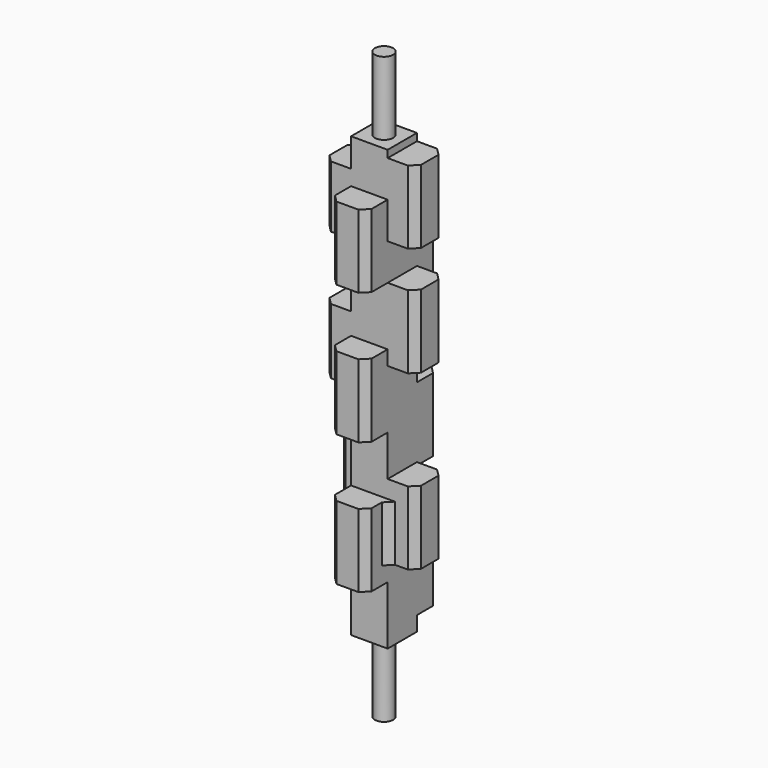
from build123d import *

# Parameters (mm, degrees)
F0_W      = 12.7
F0_H      = 12.7
F1_DEPTH  = 76.2
F2_W      = 12.7
F2_H      = 25.4
F3_DEPTH  = 9.525
F4_W      = 12.7
F4_H      = 25.4
F5_DEPTH  = 9.525
F7_DEPTH  = 9.525
F9_DEPTH  = 9.525
F10_R     = 3.1496
F11_DEPTH = 25.4
F12_R     = 3.1496
F13_DEPTH = 25.4
F14_SIZE  = 2.54


with BuildPart() as f1:
    # F0 (on Top) → F1 (new body, symmetric)
    with BuildSketch(Plane.XY):
        Rectangle(F0_W, F0_H)
    extrude(amount=F1_DEPTH, both=True)

    # F2 (on face) → F3 (join)
    with BuildSketch(Plane(origin=(0, 6.35, 0), x_dir=(-1, 0, 0), z_dir=(0, 1, 0))):
        with Locations((0, -58.42)):
            Rectangle(F2_W, F2_H)
        with Locations((0, -12.7)):
            Rectangle(F2_W, F2_H)
        with Locations((0, 33.02)):
            Rectangle(F2_W, F2_H)
    extrude(amount=F3_DEPTH)

    # F4 (on face) → F5 (join)
    with BuildSketch(Plane.XZ.offset(6.35)):
        with Locations((0, 48.26)):
            Rectangle(F4_W, F4_H)
        with Locations((0, 2.54)):
            Rectangle(F4_W, F4_H)
        with Locations((0, -43.18)):
            Rectangle(F4_W, F4_H)
    extrude(amount=F5_DEPTH)

    # F6 (on face) → F7 (join)
    with BuildSketch(Plane(origin=(-6.35, 0, 0), x_dir=(0, -1, 0), z_dir=(-1, 0, 0))):
        Polygon((-6.35, 66.260369), (-6.35, 45.72), (-6.35, 44.788861), (6.35, 44.788861), (6.35, 60.96), (6.35, 66.260369), align=None)
        Polygon((-6.35, 20.32), (-6.35, 0), (6.35, 0), (6.35, 15.24), (6.35, 22.712743), (-6.35, 22.712743), align=None)
        Polygon((-6.35, -45.72), (-6.35, -50.8), (0, -50.8), (0, -19.05), (-6.35, -19.05), (-6.35, -25.4), align=None)
    extrude(amount=F7_DEPTH)

    # F8 (on face) → F9 (join)
    with BuildSketch(Plane.YZ.offset(6.35)):
        Polygon((6.35, -24.37056), (-6.35, -24.37056), (-6.35, -30.48), (-6.35, -49.77056), (6.35, -49.77056), (6.35, -45.72), (6.35, -25.4), align=None)
        Polygon((6.35, 35.56), (-6.35, 35.56), (-6.35, 15.24), (-6.35, 10.16), (6.35, 10.16), (6.35, 20.32), align=None)
        Polygon((6.35, 73.66), (-6.35, 73.66), (-6.35, 60.96), (-6.35, 48.26), (6.35, 48.26), align=None)
    extrude(amount=F9_DEPTH)

    # F10 (on face) → F11 (join)
    with BuildSketch(Plane.XY.offset(76.2)):
        Circle(F10_R)
    extrude(amount=F11_DEPTH)

    # F12 (on face) → F13 (join)
    with BuildSketch(Plane(origin=(0, 0, -76.2), x_dir=(1, 0, 0), z_dir=(0, 0, -1))):
        Circle(F12_R)
    extrude(amount=F13_DEPTH)

    # F14
    f14_edges = [f1.edges().sort_by_distance(p)[0] for p in [
        (15.875, -6.35, 60.96),
        (15.875, 6.35, 60.96),
        (6.35, -15.875, 48.26),
        (-6.35, -15.875, 48.26),
        (-15.875, -6.35, 55.524615),
        (-15.875, 6.35, 55.524615),
        (-6.35, 15.875, 33.02),
        (6.35, 15.875, 33.02),
        (15.875, 6.35, 22.86),
        (15.875, -6.35, 22.86),
        (6.35, -15.875, 2.54),
        (-6.35, -15.875, 2.54),
        (-15.875, -6.35, 11.356371),
        (-15.875, 6.35, 11.356371),
        (-6.35, 15.875, -12.7),
        (6.35, 15.875, -12.7),
        (-15.875, 6.35, -34.925),
        (-15.875, 0, -34.925),
        (-6.35, -15.875, -43.18),
        (6.35, -15.875, -43.18),
        (6.35, -6.35, -40.12528),
        (15.875, 6.35, -37.07056),
        (15.875, -6.35, -37.07056),
        (6.35, 15.875, -58.42),
        (-6.35, 15.875, -58.42),
    ]]
    chamfer(f14_edges, length=F14_SIZE)


solid = f1.part
